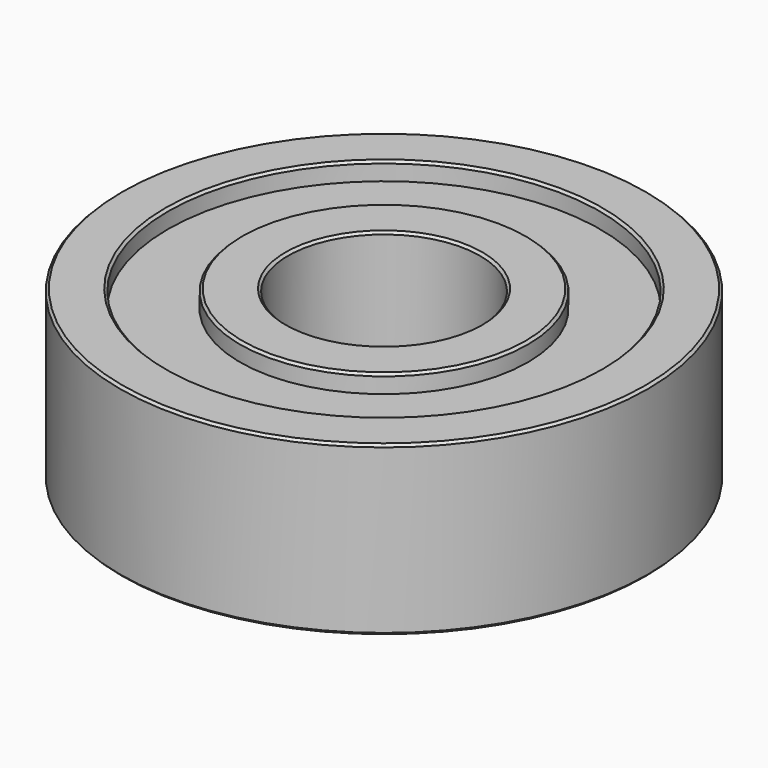
from build123d import *

# Parameters (mm, degrees)
F0_R     = 11
F0_R_2   = 9
F1_DEPTH = 3.5
F0_R_3   = 6
F0_R_4   = 4
F2_DEPTH = 2.75
F3_SIZE  = 0.1


with BuildPart() as f1:
    # F0 (on Top) → F1 (new body, symmetric)
    with BuildSketch(Plane.XY):
        Circle(F0_R)
        Circle(F0_R_2, mode=Mode.SUBTRACT)
    extrude(amount=F1_DEPTH, both=True)



with BuildPart() as f1b:
    # F0 (on Top) → F1, piece 2 (new body, symmetric)
    with BuildSketch(Plane.XY):
        Circle(F0_R_3)
        Circle(F0_R_4, mode=Mode.SUBTRACT)
    extrude(amount=F1_DEPTH, both=True)


with BuildPart() as f1_1:
    add(f1.part)

    add(f1b.part)  # F2 merges F1b
    # F0 (on Top) → F2 (join, symmetric)
    with BuildSketch(Plane.XY):
        Circle(F0_R_2)
        Circle(F0_R_3, mode=Mode.SUBTRACT)
    extrude(amount=F2_DEPTH, both=True)

    # F3
    f3_edges = [f1_1.edges().sort_by_distance(p)[0] for p in [
        (-4, 0, 3.5),
        (-4, 0, -3.5),
        (-11, 0, 3.5),
        (-9, 0, 3.5),
        (-6, 0, 3.5),
        (-11, 0, -3.5),
        (-9, 0, -3.5),
        (-6, 0, -3.5),
    ]]
    chamfer(f3_edges, length=F3_SIZE)


solid = f1_1.part
